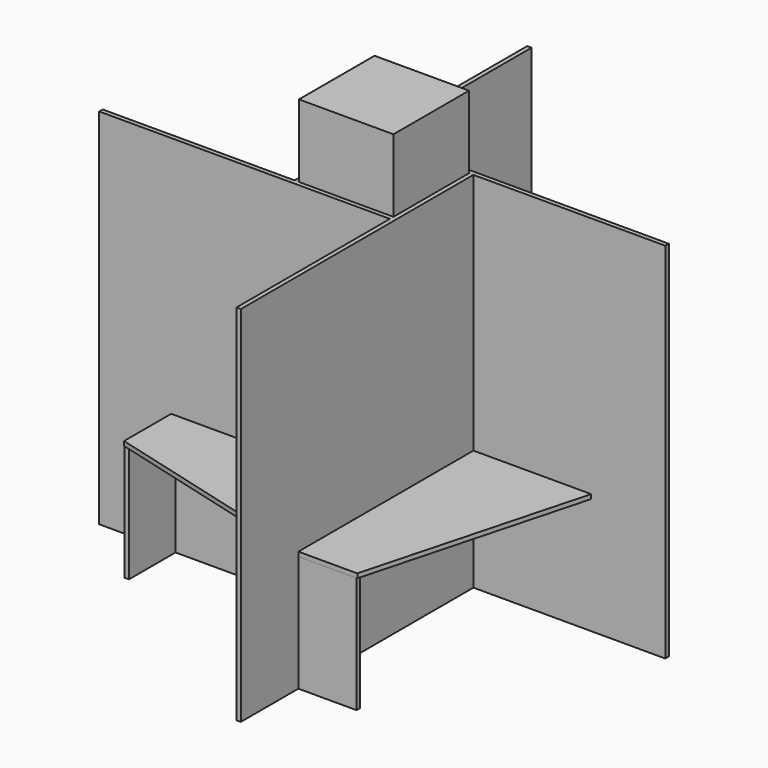
from build123d import *

# Parameters (mm, degrees)
F0_W      = 650
F0_H      = 650
F1_DEPTH  = 3000
F2_W      = 2000
F2_H      = 30
F3_DEPTH  = 2500
F5_COUNT  = 4
F8_DEPTH  = 30
F9_W      = 30
F9_H      = 400
F10_DEPTH = 800
F11_COUNT = 4


with BuildPart() as f1:
    # F0 (on Top) → F1 (new body)
    with BuildSketch(Plane.XY):
        Rectangle(F0_W, F0_H)
    extrude(amount=F1_DEPTH)


with BuildPart() as f3:
    # F2 (on Top) → F3 (new body)
    with BuildSketch(Plane.XY):
        with Locations((-675, -340)):
            Rectangle(F2_W, F2_H)
    extrude(amount=F3_DEPTH)


with BuildPart() as f5_1:
    # F5: instance of F3
    add(f3.part.rotate(Axis((0, 0, 1757.82001), (0, 0, 1)), 1 * 360 / F5_COUNT))


with BuildPart() as f5_2:
    # F5: instance of F3
    add(f3.part.rotate(Axis((0, 0, 1757.82001), (0, 0, 1)), 2 * 360 / F5_COUNT))


with BuildPart() as f5_3:
    # F5: instance of F3
    add(f3.part.rotate(Axis((0, 0, 1757.82001), (0, 0, 1)), 3 * 360 / F5_COUNT))


with BuildPart() as f8:
    # F7 (on offset) → F8 (new body)
    with BuildSketch(Plane.XY.offset(800)):
        Polygon((325, -1165), (325, -355), (-1180, -355), (-1180, -760), align=None)
    extrude(amount=F8_DEPTH)


with BuildPart() as f10:
    # F9 (on Top) → F10 (new body, through all)
    with BuildSketch(Plane.XY):
        with Locations((-1165, -555)):
            Rectangle(F9_W, F9_H)
    extrude(amount=F10_DEPTH)


with BuildPart() as f11_1:
    # F11: instance of F10
    add(f10.part.rotate(Axis((0, 0, 1757.82001), (0, 0, 1)), 1 * 360 / F11_COUNT))


with BuildPart() as f11_2:
    # F11: instance of F10
    add(f10.part.rotate(Axis((0, 0, 1757.82001), (0, 0, 1)), 2 * 360 / F11_COUNT))


with BuildPart() as f11_3:
    # F11: instance of F10
    add(f10.part.rotate(Axis((0, 0, 1757.82001), (0, 0, 1)), 3 * 360 / F11_COUNT))


with BuildPart() as f11_4:
    # F11: instance of F8
    add(f8.part.rotate(Axis((0, 0, 1757.82001), (0, 0, 1)), 1 * 360 / F11_COUNT))


with BuildPart() as f11_5:
    # F11: instance of F8
    add(f8.part.rotate(Axis((0, 0, 1757.82001), (0, 0, 1)), 2 * 360 / F11_COUNT))


with BuildPart() as f11_6:
    # F11: instance of F8
    add(f8.part.rotate(Axis((0, 0, 1757.82001), (0, 0, 1)), 3 * 360 / F11_COUNT))


solid = Compound([f1.part, f3.part, f5_1.part, f5_2.part, f5_3.part, f8.part, f10.part, f11_1.part, f11_2.part, f11_3.part, f11_4.part, f11_5.part, f11_6.part])
